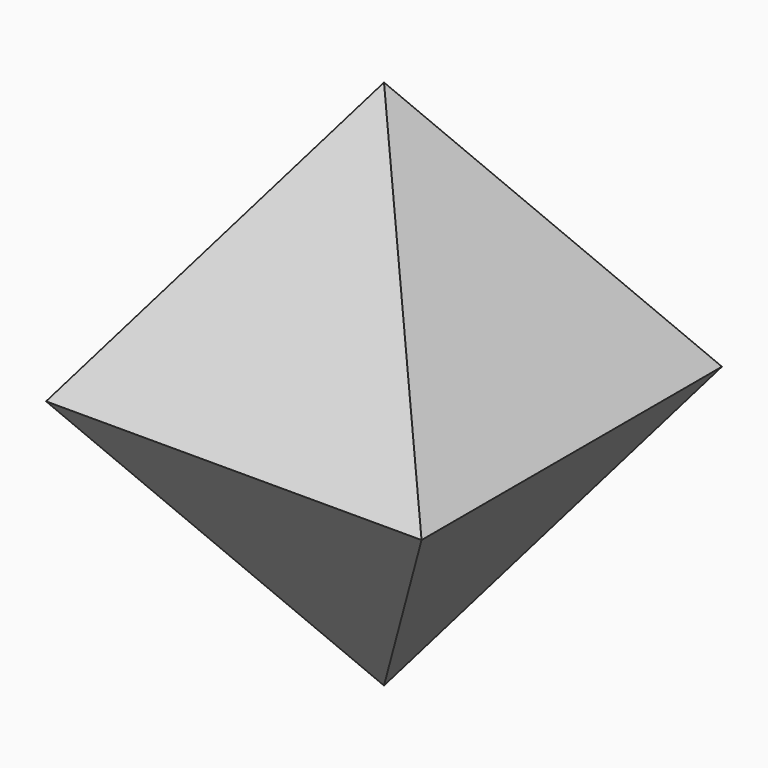
from build123d import *

# Parameters (mm, degrees)
F4_DEPTH = 25.4
F5_W     = 67.88828969
F5_H     = 62.6565348357
F6_DEPTH = 25.4
F7_W     = 63.3649621159
F7_H     = 48.1852069497
F8_DEPTH = 25.4


with BuildPart() as f4:
    # F0 (on Top) → F4 (new body)
    with BuildSketch(Plane.XY):
        Polygon((-12.7, -12.7), (12.7, 12.7), (-12.7, 12.7), align=None)
    extrude(amount=F4_DEPTH)

    # F5 (on 3pt) → F6 (cut)
    with BuildSketch(Plane(origin=(-8.4666666667, 0, 5.986837414), x_dir=(0, -1, 0), z_dir=(-0.8164965809, 0, 0.5773502692))):
        with Locations((3.6888867617, 8.2130255178)):
            Rectangle(F5_W, F5_H)
    extrude(amount=F6_DEPTH, mode=Mode.SUBTRACT)

    # F7 (on 3pt) → F8 (cut)
    with BuildSketch(Plane(origin=(0, 8.4666666667, 5.986837414), x_dir=(1, 0, 0), z_dir=(0, -0.8164965809, -0.5773502692))):
        with Locations((-5.2759340033, 8.3669126034)):
            Rectangle(F7_W, F7_H)
    extrude(amount=-F8_DEPTH, mode=Mode.SUBTRACT)

    # F9: F4 across face


with BuildPart() as f4_1:
    add(f4.part)
    add(f4.part.mirror(Plane(origin=(0, 0, 5.986837414), x_dir=(0.7071067812, 0.7071067812, 0), z_dir=(0.7071067812, -0.7071067812, 0))))

    # F10: F4 across face


with BuildPart() as f4_2:
    add(f4_1.part)
    add(f4_1.part.mirror(Plane(origin=(0, 0, 0), x_dir=(1, 0, 0), z_dir=(0, 0, -1))))


solid = f4_2.part
